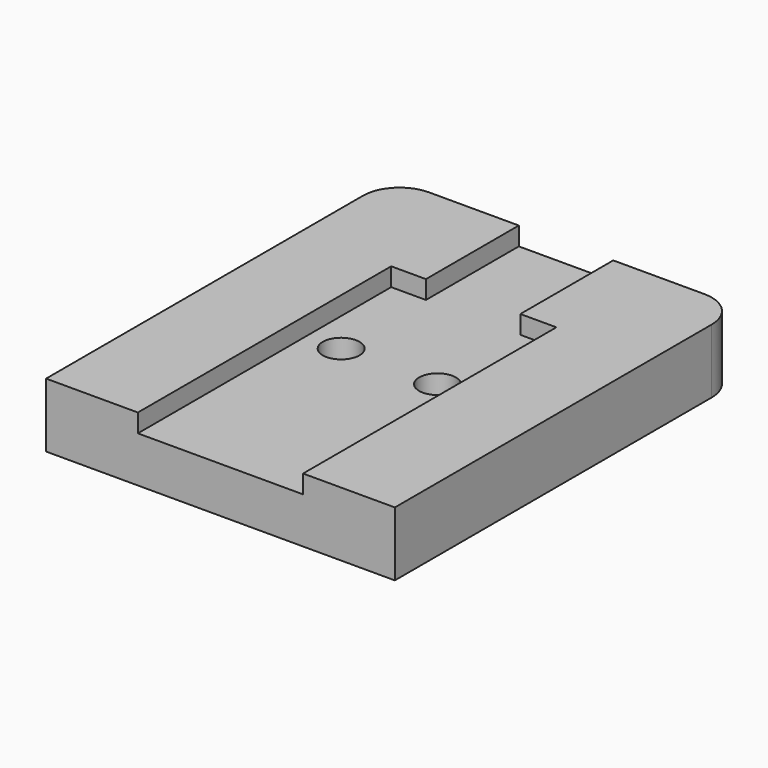
from build123d import *

# Parameters (mm, degrees)
SKETCH_W        = 38
SKETCH_H        = 47.15
PAD_DEPTH       = 7
SKETCH001_R     = 1.5
POCKET_DEPTH    = 12
FILLET_R        = 4
SKETCH002_W     = 18
SKETCH002_H     = 34.5
POCKET001_DEPTH = 2
SKETCH003_W     = 10.28814
SKETCH003_H     = 13.233085
POCKET002_DEPTH = 2
SKETCH004_R     = 2
POCKET003_DEPTH = 4


with BuildPart() as part:
    # Sketch → Pad (new body)
    with BuildSketch(Plane.XY):
        Rectangle(SKETCH_W, SKETCH_H)
    extrude(amount=PAD_DEPTH)

    # Sketch001 (on Face4 of Pad) → Pocket (cut)
    with BuildSketch(Plane(origin=(0, 23.575, 0), x_dir=(-1, 0, 0), z_dir=(0, 1, 0))):
        with Locations((-12.075, 3.5)):
            Circle(SKETCH001_R)
        with Locations((12.075, 3.5)):
            Circle(SKETCH001_R)
    extrude(amount=-POCKET_DEPTH, mode=Mode.SUBTRACT)

    # Fillet
    fillet_edges = [part.edges().sort_by_distance(p)[0] for p in [
        (-19, 23.575, 3.5),
        (19, 23.575, 3.5),
    ]]
    fillet(fillet_edges, radius=FILLET_R)

    # Sketch002 (on Face5 of Fillet) → Pocket001 (cut)
    with BuildSketch(Plane.XY.offset(7)):
        with Locations((0, -6.325)):
            Rectangle(SKETCH002_W, SKETCH002_H)
    extrude(amount=-POCKET001_DEPTH, mode=Mode.SUBTRACT)

    # Sketch003 (on Face5 of Pocket001) → Pocket002 (cut)
    with BuildSketch(Plane.XY.offset(7)):
        with Locations((-0.070341, 16.958458)):
            Rectangle(SKETCH003_W, SKETCH003_H)
    extrude(amount=-POCKET002_DEPTH, mode=Mode.SUBTRACT)

    # Sketch004 (on Face20 of Pocket002) → Pocket003 (cut)
    with BuildSketch(Plane.XY.offset(5)):
        with Locations((-5.25, -0.575)):
            Circle(SKETCH004_R)
        with Locations((5.25, -0.575)):
            Circle(SKETCH004_R)
    extrude(amount=-POCKET003_DEPTH, mode=Mode.SUBTRACT)


solid = part.part
